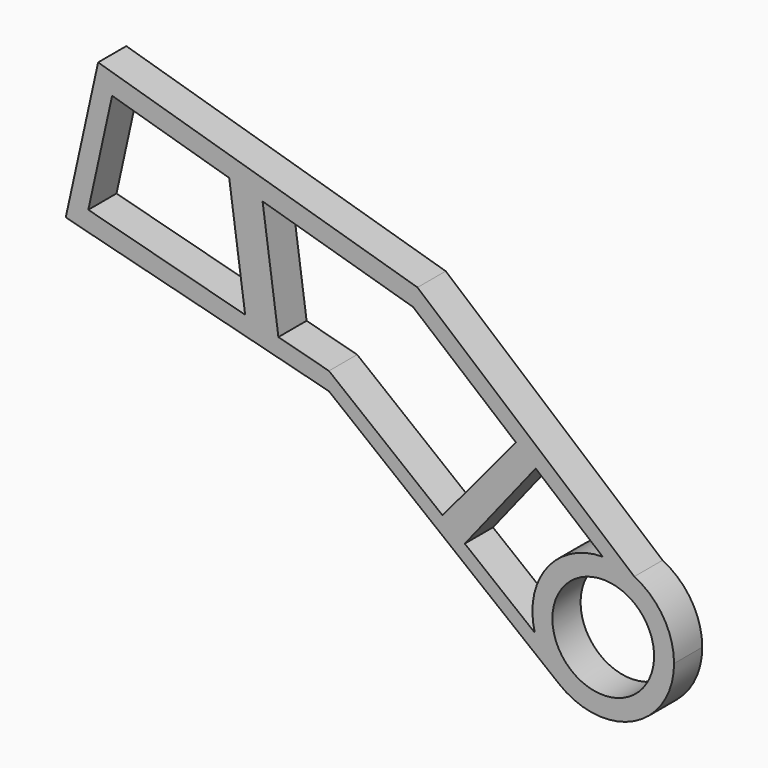
from build123d import *

# Parameters (mm, degrees)
F0_R     = 4.1529
F1_DEPTH = 3.74112
F2_R     = 5.3975
F3_DEPTH = 25.4


with BuildPart() as f1:
    # F0 (on Front) → F1 (new body)
    with BuildSketch(Plane.XZ):
        Polygon((-1.106079, -16.707432), (6.419018, -7.234566), (4.326342, -5.488987), (-3.466987, -14.831964), align=None)
        Polygon((-20.885671, -3.838109), (-22.564381, 8.295304), (-26.106817, 9.332149), (-24.413652, -2.905742), align=None)
        with BuildLine():
            ThreePointArc((13.531608, -13.167445), (15.255443, -13.354337), (16.890565, -13.931319))
            Line((16.890565, -13.931319), (-6.122345, 5.599705))
            Line((-6.122345, 5.599705), (-40.019221, 15.604509))
            Line((-40.019221, 15.604509), (-43.453703, 0))
            Line((-43.453703, 0), (-15.522079, -7.155403))
            Line((-15.522079, -7.155403), (8.91424, -26.567232))
            ThreePointArc((8.91424, -26.567232), (7.30033, -24.797842), (6.325001, -22.610565))
            Line((6.325001, -22.610565), (-1.106079, -16.707432))
            Line((-1.106079, -16.707432), (-3.466987, -14.831964))
            Line((-3.466987, -14.831964), (-15.522079, -5.255588))
            Line((-15.522079, -5.255588), (-20.885671, -3.838109))
            Line((-20.885671, -3.838109), (-24.413652, -2.905742))
            Line((-24.413652, -2.905742), (-41.059079, 1.493276))
            Line((-41.059079, 1.493276), (-38.533263, 12.969277))
            Line((-38.533263, 12.969277), (-26.106817, 9.332149))
            Line((-26.106817, 9.332149), (-22.564381, 8.295304))
            Line((-22.564381, 8.295304), (-6.595499, 3.621332))
            Line((-6.595499, 3.621332), (4.326342, -5.488987))
            Line((4.326342, -5.488987), (6.419018, -7.234566))
            Line((6.419018, -7.234566), (13.531608, -13.167445))
        make_face()
        with BuildLine():
            ThreePointArc((8.91424, -26.567232), (16.856094, -27.450659), (21.104277, -20.682615))
            ThreePointArc((21.104277, -20.682615), (19.964406, -16.703439), (16.890565, -13.931319))
            ThreePointArc((16.890565, -13.931319), (15.255443, -13.354337), (13.531608, -13.167445))
            ThreePointArc((13.531608, -13.167445), (7.614526, -16.123223), (6.325001, -22.610565))
            ThreePointArc((6.325001, -22.610565), (7.30033, -24.797842), (8.91424, -26.567232))
        make_face()
        with Locations((13.588889, -20.682615)):
            Circle(F0_R, mode=Mode.SUBTRACT)
        with Locations((13.588889, -20.682615)):
            Circle(F0_R)
    extrude(amount=F1_DEPTH)

    # F2 (on face) → F3 (cut)
    with BuildSketch(Plane(origin=(0, 0, 0), x_dir=(-1, 0, 0), z_dir=(0, 1, 0))):
        with Locations((-13.588889, -20.682615)):
            Circle(F2_R)
    extrude(amount=-F3_DEPTH, mode=Mode.SUBTRACT)


solid = f1.part
